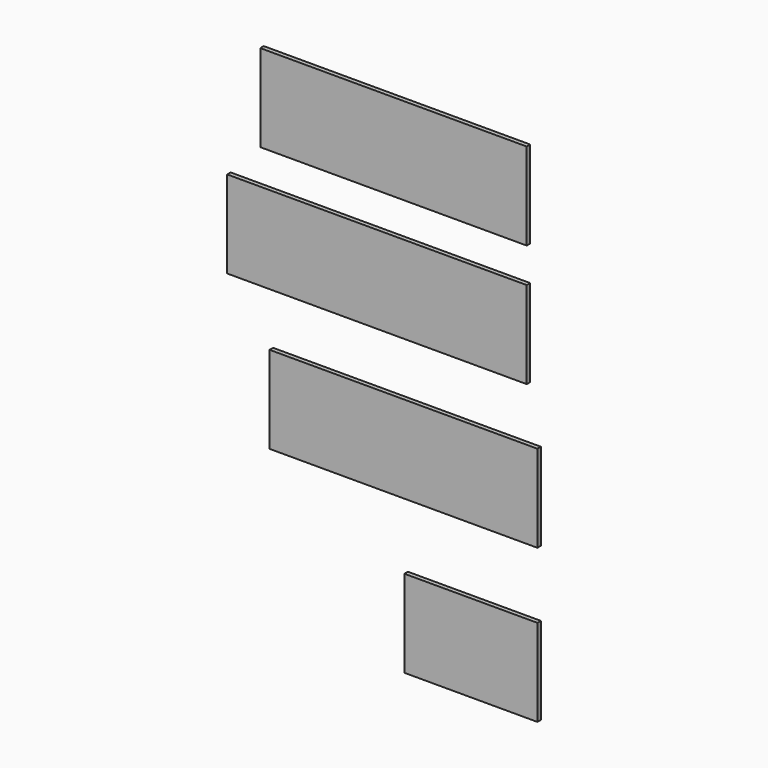
from build123d import *

# Parameters (mm, degrees)
F0_W     = 611
F0_H     = 200
F0_W_2   = 687
F0_W_3   = 614
F0_W_4   = 305
F1_DEPTH = 10


with BuildPart() as f1:
    # F0 (on Front) → F1 (new body)
    with BuildSketch(Plane.XZ):
        with Locations((-329.865847, 179.721487)):
            Rectangle(F0_W, F0_H)
        with Locations((-367.865847, -100)):
            Rectangle(F0_W_2, F0_H)
        with Locations((-307, -422.395492)):
            Rectangle(F0_W_3, F0_H)
        with Locations((-152.5, -773.892844)):
            Rectangle(F0_W_4, F0_H)
    extrude(amount=F1_DEPTH)


solid = f1.part
